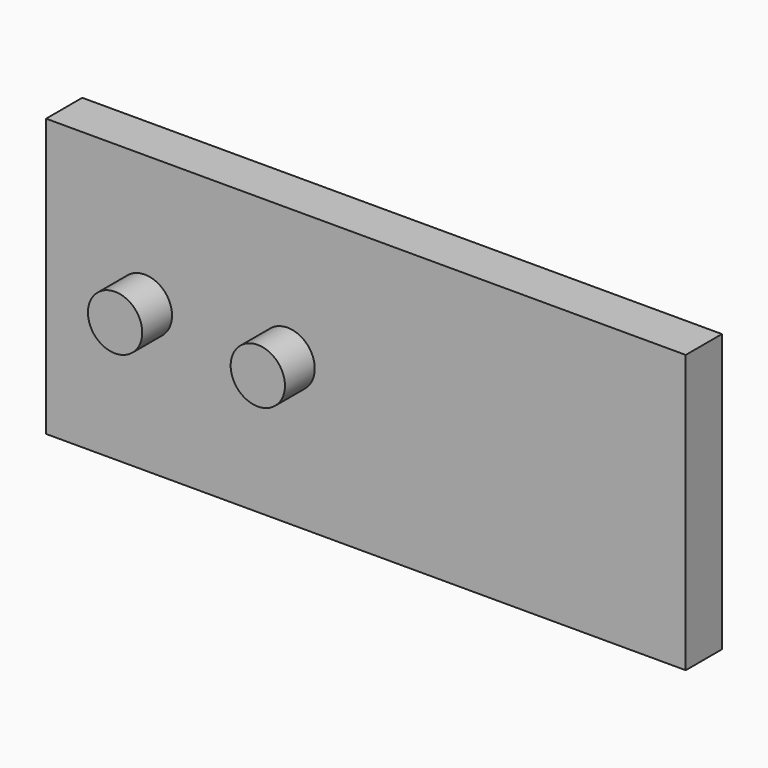
from build123d import *

# Parameters (mm, degrees)
F0_R     = 57.15
F1_DEPTH = 95.2044
F2_R     = 57.15
F3_DEPTH = 173.595728


with BuildPart() as f1:
    # F0 (on Front) → F1 (new body)
    with BuildSketch(Plane.XZ):
        Polygon((662.677174, 75.96576), (-683.522826, 75.96576), (-683.522826, -508.23424), (262.349523, -508.23424), (268.236725, -508.23424), (662.677174, -508.23424), align=None)
        with Locations((-475.626498, -202.36975)):
            Circle(F0_R, mode=Mode.SUBTRACT)
        with BuildLine():
            ThreePointArc((-77.100498, -202.36975), (-134.250498, -259.51975), (-191.400498, -202.36975))
            ThreePointArc((-191.400498, -202.36975), (-134.250498, -145.21975), (-77.100498, -202.36975))
        make_face(mode=Mode.SUBTRACT)
        with Locations((-475.626498, -202.36975)):
            Circle(F0_R)
        with BuildLine():
            ThreePointArc((-77.100498, -202.36975), (-134.250498, -145.21975), (-191.400498, -202.36975))
            ThreePointArc((-191.400498, -202.36975), (-134.250498, -259.51975), (-77.100498, -202.36975))
        make_face()
    extrude(amount=F1_DEPTH)

    # F2 (on Front) + F0 (on Front) → F3 (join)
    with BuildSketch(Plane.XZ):
        with Locations((-175.21213, -203.090936)):
            Circle(F2_R)
    with BuildSketch(Plane.XZ):
        with Locations((-475.626498, -202.36975)):
            Circle(F0_R)
    extrude(amount=F3_DEPTH)


solid = f1.part
